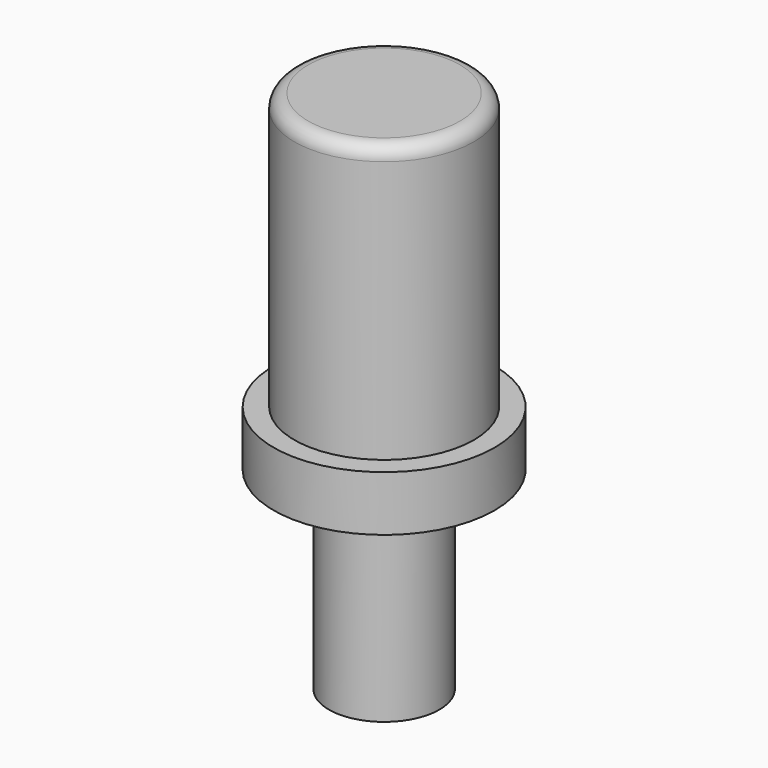
from build123d import *

# Parameters (mm, degrees)
F0_R     = 4
F0_R_2   = 2
F1_DEPTH = 2
F2_R     = 3.25
F3_DEPTH = 10
F4_DEPTH = 7
F5_R     = 0.5


with BuildPart() as f1:
    # F0 (on Top) → F1 (new body)
    with BuildSketch(Plane.XY):
        Circle(F0_R)
        Circle(F0_R_2, mode=Mode.SUBTRACT)
        Circle(F0_R_2)
    extrude(amount=F1_DEPTH)

    # F2 (on face) → F3 (join)
    with BuildSketch(Plane.XY.offset(2)):
        Circle(F2_R)
    extrude(amount=F3_DEPTH)

    # F0 (on Top) → F4 (join)
    with BuildSketch(Plane.XY):
        Circle(F0_R_2)
    extrude(amount=-F4_DEPTH)

    # F5
    f5_edges = [f1.edges().sort_by_distance(p)[0] for p in [
        (-3.25, 0, 12),
    ]]
    fillet(f5_edges, radius=F5_R)


solid = f1.part
